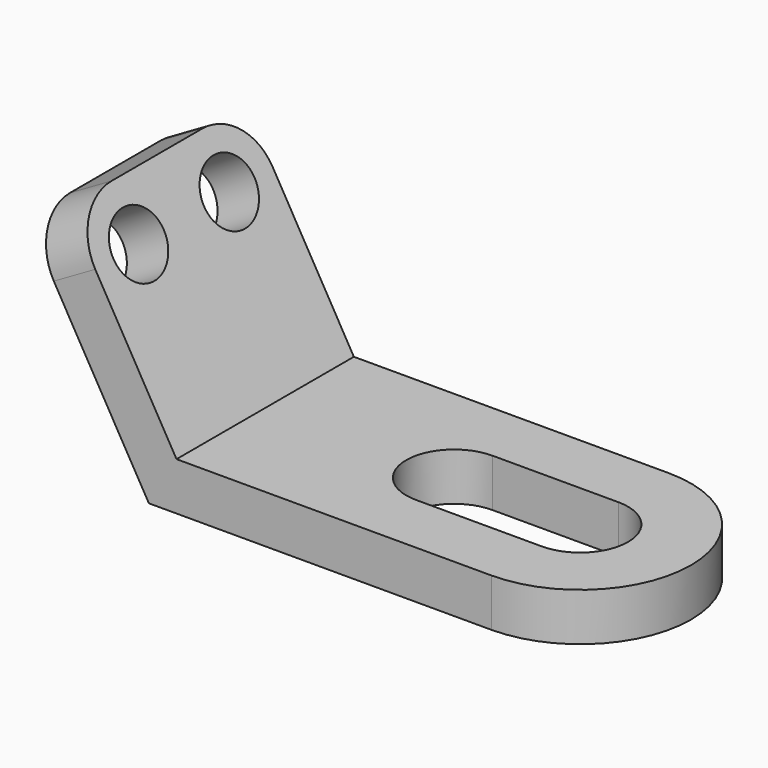
from build123d import *

# Parameters (mm, degrees)
F2_R     = 6.35
F3_DEPTH = 9.652
F4_DEPTH = 9.652
F6_DEPTH = 44.704


with BuildPart() as f3:
    # F2 (on face) → F3 (new body)
    with BuildSketch(Plane(origin=(-47.391302, 0, -27.361381), x_dir=(0, 1, 0), z_dir=(0.866025, 0, 0.5))):
        with BuildLine():
            Line((-22.352, 64.360201), (-22.352, 31.594201))
            Line((-22.352, 31.594201), (22.352, 31.594201))
            Line((22.352, 31.594201), (22.352, 64.360201))
            ThreePointArc((22.352, 64.360201), (19.15302, 72.083222), (11.43, 75.282201))
            Line((11.43, 75.282201), (-11.43, 75.282201))
            ThreePointArc((-11.43, 75.282201), (-19.15302, 72.083222), (-22.352, 64.360201))
        make_face()
        with Locations((-11.43, 64.360201)):
            Circle(F2_R, mode=Mode.SUBTRACT)
        with Locations((11.43, 64.360201)):
            Circle(F2_R, mode=Mode.SUBTRACT)
    extrude(amount=-F3_DEPTH)



with BuildPart() as f4:
    # F0 (on Top) → F4 (new body)
    with BuildSketch(Plane.XY):
        with BuildLine():
            Line((-63.188403, -22.352), (0.311597, -22.352))
            ThreePointArc((0.311597, -22.352), (22.663597, 0), (0.311597, 22.352))
            Line((0.311597, 22.352), (-63.188403, 22.352))
            Line((-63.188403, 22.352), (-63.188403, -22.352))
        make_face()
        with BuildLine():
            ThreePointArc((0.311597, 9.652), (9.963597, 0), (0.311597, -9.652))
            Line((0.311597, -9.652), (-25.088403, -9.652))
            ThreePointArc((-25.088403, -9.652), (-34.740403, 0), (-25.088403, 9.652))
            Line((-25.088403, 9.652), (0.311597, 9.652))
        make_face(mode=Mode.SUBTRACT)
    extrude(amount=-F4_DEPTH)


with BuildPart() as f3_1:
    add(f3.part)

    add(f4.part)  # F6 merges F4
    # F5 (on face) → F6 (join)
    with BuildSketch(Plane.XZ.offset(22.352)):
        Polygon((-63.188403, 0), (-71.54728, -4.826), (-68.760988, -9.652), (-63.188403, -9.652), align=None)
    extrude(amount=-F6_DEPTH)


solid = f3_1.part
